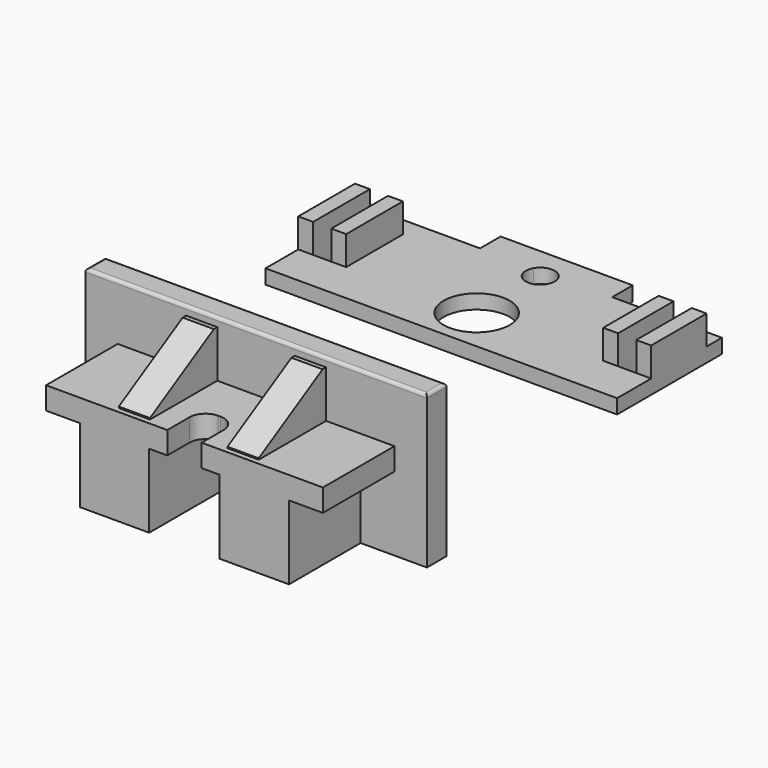
from build123d import *

# Parameters (mm, degrees)
F0_R      = 3.1
F0_W      = 1.4
F0_H      = 6.66
F0_H_2    = 6.5
F1_DEPTH  = 1.35
F2_DEPTH  = 2.73
F0_W_2    = 3.075
F0_H_3    = 6
F4_DEPTH  = 5.31
F5_DEPTH  = 8.98
F0_W_3    = 3.18
F0_H_4    = 8.4
F0_W_4    = 3
F0_W_5    = 1.7
F0_H_5    = 4.1
F6_DEPTH  = 2.1
F7_R      = 1.5
F8_DEPTH  = 6.94
F10_W     = 2.9251344968
F10_H     = 4.4288027566
F11_DEPTH = 7.9
F12_SIZE2 = 7.5
F12_SIZE  = 4.3
F14_R     = 0.3
F15_R     = 0.2


with BuildPart() as f1:
    # F0 (on Top) → F1 (new body)
    with BuildSketch(Plane.XY):
        with BuildLine():
            Line((16.5, 4.35), (16.5, 6.15))
            Line((16.5, 6.15), (6.2, 6.15))
            Line((6.2, 6.15), (1.1719641633, 6.15))
            ThreePointArc((1.1719641633, 6.15), (1.3121492411, 5.817581276), (1.36, 5.46))
            ThreePointArc((1.36, 5.46), (-0.357581276, 4.1478507589), (-1.1719641633, 6.15))
            Line((-1.1719641633, 6.15), (-6.2, 6.15))
            Line((-6.2, 6.15), (-16.5, 6.15))
            Line((-16.5, 6.15), (-16.5, 4.35))
            Line((-16.5, 4.35), (-15.1, 4.35))
            Line((-15.1, 4.35), (-13.4, 4.35))
            Line((-13.4, 4.35), (-12, 4.35))
            Line((-12, 4.35), (-12, -2.31))
            Line((-12, -2.31), (-13.4, -2.31))
            Line((-13.4, -2.31), (-15.1, -2.31))
            Line((-15.1, -2.31), (-16.5, -2.31))
            Line((-16.5, -2.31), (-16.5, -6.15))
            Line((-16.5, -6.15), (16.5, -6.15))
            Line((16.5, -6.15), (16.5, -2.15))
            Line((16.5, -2.15), (15.1, -2.15))
            Line((15.1, -2.15), (13.4, -2.15))
            Line((13.4, -2.15), (12, -2.15))
            Line((12, -2.15), (12, 4.35))
            Line((12, 4.35), (13.4, 4.35))
            Line((13.4, 4.35), (15.1, 4.35))
            Line((15.1, 4.35), (16.5, 4.35))
        make_face()
        with Locations((0, -2)):
            Circle(F0_R, mode=Mode.SUBTRACT)
        with Locations((-15.8, 1.02)):
            Rectangle(F0_W, F0_H)
        with Locations((12.7, 1.1)):
            Rectangle(F0_W, F0_H_2)
        with BuildLine():
            Line((1.1719641633, 6.15), (6.2, 6.15))
            Line((6.2, 6.15), (6.2, 8.56))
            Line((6.2, 8.56), (-6.2, 8.56))
            Line((-6.2, 8.56), (-6.2, 6.15))
            Line((-6.2, 6.15), (-1.1719641633, 6.15))
            ThreePointArc((-1.1719641633, 6.15), (0, 6.82), (1.1719641633, 6.15))
        make_face()
        with Locations((15.8, 1.1)):
            Rectangle(F0_W, F0_H_2)
        with Locations((-12.7, 1.02)):
            Rectangle(F0_W, F0_H)
    extrude(amount=-F1_DEPTH)

    # F0 (on Top) → F2 (join)
    with BuildSketch(Plane.XY):
        with Locations((-12.7, 1.02)):
            Rectangle(F0_W, F0_H)
        with Locations((12.7, 1.1)):
            Rectangle(F0_W, F0_H_2)
        with Locations((15.8, 1.1)):
            Rectangle(F0_W, F0_H_2)
        with Locations((-15.8, 1.02)):
            Rectangle(F0_W, F0_H)
    extrude(amount=F2_DEPTH)


with BuildPart() as f3:
    # F0 (on Top) → F3 (revolve)
    with BuildSketch(Plane.XY):
        with Locations((1.5375, -22.552492097)):
            Rectangle(F0_W_2, F0_H_3)
    revolve(axis=Axis((0, -22.552492097, 0), (0, -1, 0)))

    # F0 (on Top) → F4 (join)
    with BuildSketch(Plane.XY):
        Polygon((16.03, -25.552492097), (3.075, -25.552492097), (0, -25.552492097), (-3.075, -25.552492097), (-16.03, -25.552492097), (-16.03, -27.882492097), (-12.99, -27.882492097), (-9.81, -27.882492097), (-6.81, -27.882492097), (-3.31, -27.882492097), (3.31, -27.882492097), (6.81, -27.882492097), (9.81, -27.882492097), (12.99, -27.882492097), (16.03, -27.882492097), align=None)
    extrude(amount=-F4_DEPTH)

    # F0 (on Top) → F5 (join)
    with BuildSketch(Plane.XY):
        Polygon((16.03, -25.552492097), (3.075, -25.552492097), (0, -25.552492097), (-3.075, -25.552492097), (-16.03, -25.552492097), (-16.03, -27.882492097), (-12.99, -27.882492097), (-9.81, -27.882492097), (-6.81, -27.882492097), (-3.31, -27.882492097), (3.31, -27.882492097), (6.81, -27.882492097), (9.81, -27.882492097), (12.99, -27.882492097), (16.03, -27.882492097), align=None)
    extrude(amount=F5_DEPTH)



with BuildPart() as f6:
    # F0 (on Top) → F6 (new body)
    with BuildSketch(Plane.XY):
        with Locations((11.4, -32.082492097)):
            Rectangle(F0_W_3, F0_H_4)
        with Locations((8.31, -32.082492097)):
            Rectangle(F0_W_4, F0_H_4)
        Polygon((6.81, -36.282492097), (6.81, -27.882492097), (3.31, -27.882492097), (3.31, -32.182492097), (3.31, -36.282492097), align=None)
        Polygon((3.31, -32.182492097), (3.31, -27.882492097), (-3.31, -27.882492097), (-3.31, -32.182492097), (-1.61, -32.182492097), (1.61, -32.182492097), align=None)
        with Locations((2.46, -34.232492097)):
            Rectangle(F0_W_5, F0_H_5)
        with Locations((-2.46, -34.232492097)):
            Rectangle(F0_W_5, F0_H_5)
        Polygon((-3.31, -27.882492097), (-6.81, -27.882492097), (-6.81, -36.282492097), (-3.31, -36.282492097), (-3.31, -32.182492097), align=None)
        with Locations((-8.31, -32.082492097)):
            Rectangle(F0_W_4, F0_H_4)
        with Locations((-11.4, -32.082492097)):
            Rectangle(F0_W_3, F0_H_4)
    extrude(amount=F6_DEPTH)

    # F7
    f7_edges = [f6.edges().sort_by_distance(p)[0] for p in [
        (1.61, -32.182492, 1.05),
        (-1.61, -32.182492, 1.05),
    ]]
    fillet(f7_edges, radius=F7_R)


with BuildPart() as f8:
    # F0 (on Top) → F8 (new body)
    with BuildSketch(Plane.XY):
        with Locations((-8.31, -32.082492097)):
            Rectangle(F0_W_4, F0_H_4)
        Polygon((-3.31, -27.882492097), (-6.81, -27.882492097), (-6.81, -36.282492097), (-3.31, -36.282492097), (-3.31, -32.182492097), align=None)
    extrude(amount=-F8_DEPTH)


with BuildPart() as f8b:
    # F0 (on Top) → F8, piece 2 (new body)
    with BuildSketch(Plane.XY):
        Polygon((6.81, -36.282492097), (6.81, -27.882492097), (3.31, -27.882492097), (3.31, -32.182492097), (3.31, -36.282492097), align=None)
        with Locations((8.31, -32.082492097)):
            Rectangle(F0_W_4, F0_H_4)
    extrude(amount=-F8_DEPTH)


with BuildPart() as f6_1:
    # F9: moved
    add(f6.part.moved(Location((0, 0, 1.63))))


with BuildPart() as f8_1:
    # F9: moved
    add(f8.part.moved(Location((0, 0, 1.63))))


with BuildPart() as f8b_1:
    # F9: moved
    add(f8b.part.moved(Location((0, 0, 1.63))))


with BuildPart() as f3_1:
    add(f3.part)

    add(f6_1.part)  # F11 merges F6
    # F10 (on face) → F11 (join)
    with BuildSketch(Plane.XZ.offset(27.882492097)):
        with Locations((-5.1033761119, 5.9413254494)):
            Rectangle(F10_W, F10_H)
    extrude(amount=F11_DEPTH)

    # F12
    f12_edges = [f3_1.edges().sort_by_distance(p)[0] for p in [
        (-5.103376, -35.782492, 8.155727),
    ]]
    f12_side = f3_1.faces().sort_by_distance((-5.103376, -35.782492, 5.942863))[0]
    chamfer(f12_edges, length=F12_SIZE, length2=F12_SIZE2, reference=f12_side)



with BuildPart() as f3_2:
    add(f3_1.part)

    add(f8_1.part)  # F13 merges F8

    add(f8b_1.part)  # F13 merges F8b
    # F13: F3 across plane
    add(f3_1.part.mirror(Plane.YZ))

    # F14
    f14_edges = [f3_2.edges().sort_by_distance(p)[0] for p in [
        (-16.03, -26.717492, 8.98),
        (16.03, -26.717492, 8.98),
        (0, -27.882492, 8.98),
        (0, -25.552492, 8.98),
    ]]
    fillet(f14_edges, radius=F14_R)

    # F15
    f15_edges = [f3_2.edges().sort_by_distance(p)[0] for p in [
        (-3.075, -19.552492, 0),
    ]]
    fillet(f15_edges, radius=F15_R)


solid = Compound([f1.part, f3_2.part])
